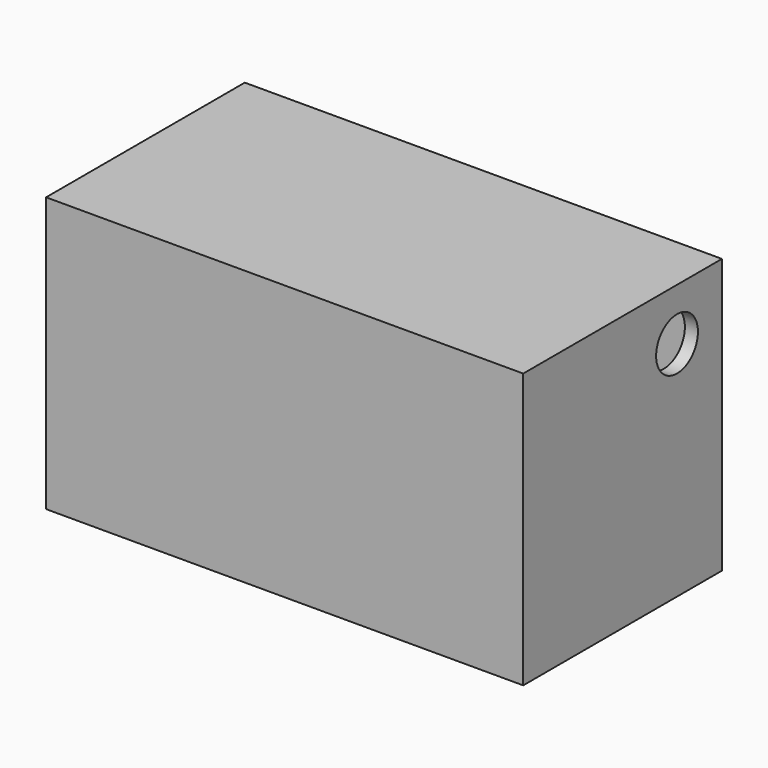
from build123d import *

# Parameters (mm, degrees)
F0_W     = 73
F0_H     = 38
F0_W_2   = 69
F0_H_2   = 34
F1_DEPTH = 2
F2_DEPTH = 40
F3_R     = 4
F4_DEPTH = 73.001


with BuildPart() as f1:
    # F0 (on Top) → F1 (new body)
    with BuildSketch(Plane.XY):
        Rectangle(F0_W, F0_H)
        Rectangle(F0_W_2, F0_H_2, mode=Mode.SUBTRACT)
        Rectangle(F0_W_2, F0_H_2)
    extrude(amount=F1_DEPTH)

    # F0 (on Top) → F2 (join)
    with BuildSketch(Plane.XY):
        Rectangle(F0_W, F0_H)
        Rectangle(F0_W_2, F0_H_2, mode=Mode.SUBTRACT)
    extrude(amount=-F2_DEPTH)

    # F3 (on face) → F4 (cut, through all)
    with BuildSketch(Plane(origin=(-36.5, 0, 0), x_dir=(0, -1, 0), z_dir=(-1, 0, 0))):
        with Locations((-10.416073, -5.953962)):
            Circle(F3_R)
    extrude(amount=-F4_DEPTH, mode=Mode.SUBTRACT)


solid = f1.part
